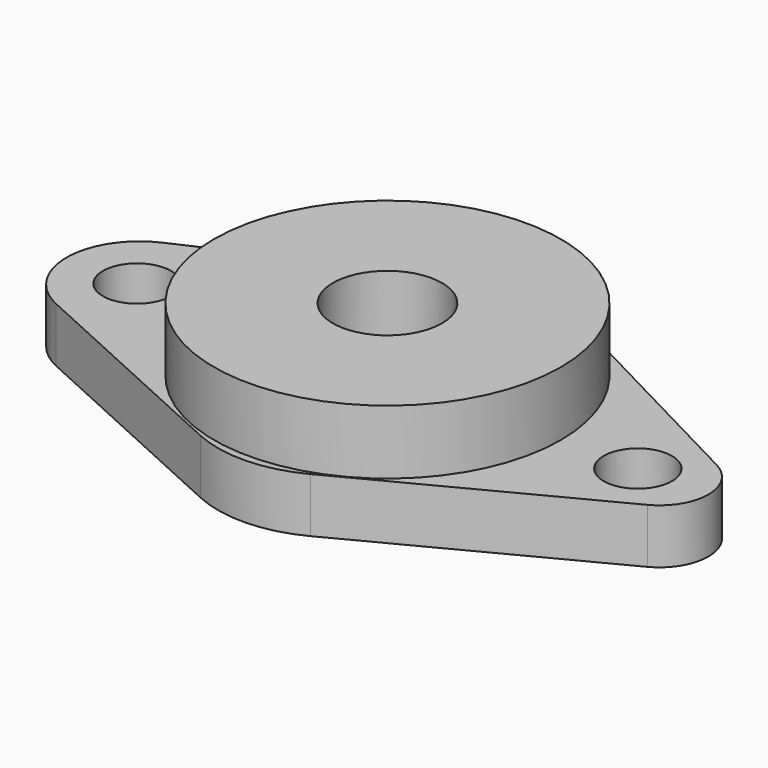
from build123d import *

# Parameters (mm, degrees)
SKETCH_R      = 4
SKETCH_R_2    = 2.5
PAD_DEPTH     = 4
SKETCH001_R   = 12.7
SKETCH001_R_2 = 4
PAD001_DEPTH  = 4.7


with BuildPart() as part:
    # Sketch → Pad (new body)
    with BuildSketch(Plane.XY):
        with BuildLine():
            Line((-20.376172, -4.856123), (-3.731608, -12.439939))
            ThreePointArc((-3.731608, -12.439939), (0.235589, -13.246916), (4.155117, -12.233421))
            Line((4.155117, -12.233421), (21.579522, -3.164572))
            ThreePointArc((21.579522, -3.164572), (23.5, 0), (21.579522, 3.164572))
            Line((21.579522, 3.164572), (4.155117, 12.233421))
            ThreePointArc((4.155117, 12.233421), (0.235589, 13.246916), (-3.731608, 12.439939))
            Line((-3.731608, 12.439939), (-20.376172, 4.856123))
            ThreePointArc((-20.376172, 4.856123), (-23.5, 0), (-20.376172, -4.856123))
        make_face()
        Circle(SKETCH_R, mode=Mode.SUBTRACT)
        with Locations((-18.336439, 0)):
            Circle(SKETCH_R_2, mode=Mode.SUBTRACT)
        with Locations((18.336439, 0)):
            Circle(SKETCH_R_2, mode=Mode.SUBTRACT)
    extrude(amount=PAD_DEPTH)

    # Sketch001 → Pad001 (new body)
    with BuildSketch(Plane.XY.offset(4)):
        Circle(SKETCH001_R)
        Circle(SKETCH001_R_2, mode=Mode.SUBTRACT)
    extrude(amount=PAD001_DEPTH)


solid = part.part
